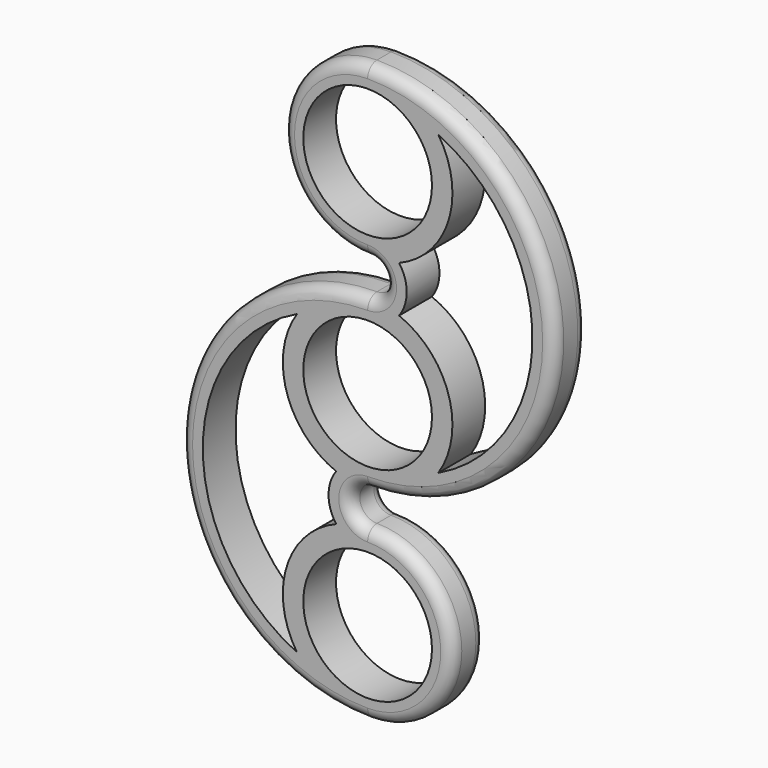
from build123d import *

# Parameters (mm, degrees)
F0_R     = 11
F1_DEPTH = 7
F2_R     = 2


with BuildPart() as f1:
    # F0 (on Front) → F1 (new body)
    with BuildSketch(Plane.XZ):
        with BuildLine():
            ThreePointArc((0, -14.5), (31.933333, 17.433333), (0, 49.366667))
            ThreePointArc((0, 49.366667), (-14.5, 34.866667), (0, 20.366667))
            ThreePointArc((0, 20.366667), (2.933333, 17.433333), (0, 14.5))
            ThreePointArc((0, 14.5), (-31.933333, -17.433333), (0, -49.366667))
            ThreePointArc((0, -49.366667), (14.5, -34.866667), (0, -20.366667))
            ThreePointArc((0, -20.366667), (-2.933333, -17.433333), (0, -14.5))
        make_face()
        with BuildLine():
            ThreePointArc((-12.070628, -42.900964), (-28.183333, -17.433333), (-12.070628, 8.034297))
            ThreePointArc((-12.070628, 8.034297), (-13.844773, -4.309553), (-5.378183, -13.465703))
            ThreePointArc((-5.378183, -13.465703), (-6.683333, -17.433333), (-5.378183, -21.400964))
            ThreePointArc((-5.378183, -21.400964), (-13.844773, -30.557114), (-12.070628, -42.900964))
        make_face(mode=Mode.SUBTRACT)
        with Locations((0, -34.866667)):
            Circle(F0_R, mode=Mode.SUBTRACT)
        Circle(F0_R, mode=Mode.SUBTRACT)
        with BuildLine():
            ThreePointArc((12.070628, 42.900964), (28.183333, 17.433333), (12.070628, -8.034297))
            ThreePointArc((12.070628, -8.034297), (13.844773, 4.309553), (5.378183, 13.465703))
            ThreePointArc((5.378183, 13.465703), (6.683333, 17.433333), (5.378183, 21.400964))
            ThreePointArc((5.378183, 21.400964), (13.844773, 30.557114), (12.070628, 42.900964))
        make_face(mode=Mode.SUBTRACT)
        with Locations((0, 34.866667)):
            Circle(F0_R, mode=Mode.SUBTRACT)
    extrude(amount=F1_DEPTH)

    # F2
    f2_edges = [f1.edges().sort_by_distance(p)[0] for p in [
        (-31.933333, -7, -17.433333),
        (-31.933333, 0, -17.433333),
    ]]
    fillet(f2_edges, radius=F2_R)


solid = f1.part
